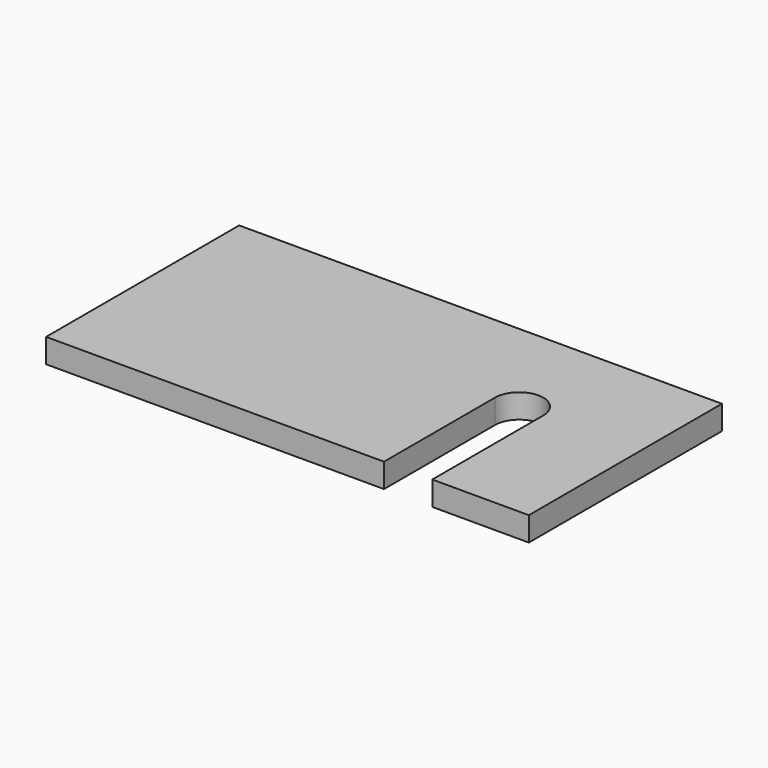
from build123d import *

# Parameters (mm, degrees)
F0_W     = 2032
F0_H     = 1016
F1_DEPTH = 101.6
F3_DEPTH = 101.601


with BuildPart() as f1:
    # F0 (on Top) → F1 (new body)
    with BuildSketch(Plane.XY):
        with Locations((1016, 508)):
            Rectangle(F0_W, F0_H)
    extrude(amount=F1_DEPTH)

    # F2 (on face) → F3 (cut, through all)
    with BuildSketch(Plane.XY.offset(101.6)):
        with BuildLine():
            Line((1422.4, 584.2), (1422.4, 0))
            Line((1422.4, 0), (1625.6, 0))
            Line((1625.6, 0), (1625.6, 584.2))
            ThreePointArc((1625.6, 584.2), (1524, 685.8), (1422.4, 584.2))
        make_face()
    extrude(amount=-F3_DEPTH, mode=Mode.SUBTRACT)


solid = f1.part
